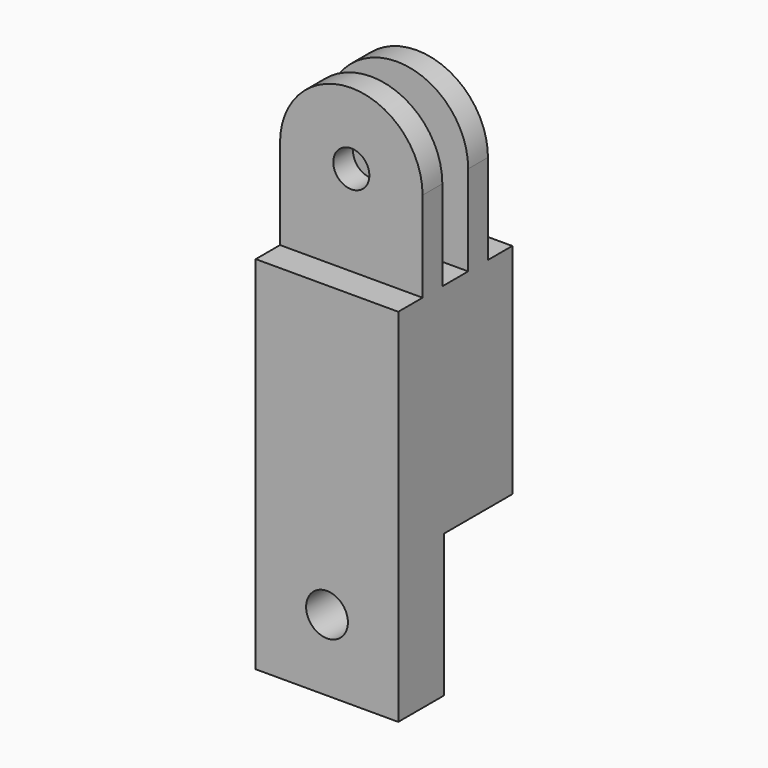
from build123d import *

# Parameters (mm, degrees)
CYLINDER005_R     = 2.2
CYLINDER005_DEPTH = 6
BOX008_W          = 15
BOX008_H          = 6
BOX008_DEPTH      = 15
CYLINDER004_R     = 1.9
CYLINDER004_DEPTH = 15
BOX005_W          = 15
BOX005_H          = 3.4
BOX005_DEPTH      = 17
ARRAY001_Y_COUNT  = 3
ARRAY001_Y_PITCH  = 6
CYLINDER003_R     = 7.5
CYLINDER003_DEPTH = 15
BOX004_W          = 15
BOX004_H          = 15
BOX004_DEPTH      = 12.5
BOX009_W          = 15
BOX009_H          = 15
BOX009_DEPTH      = 20


with BuildPart() as insert_hole001:
    # Cylinder005 → Cylinder005 (new body)
    with BuildSketch(Plane(origin=(0, -1.5, 7.5), x_dir=(1, 0, 0), z_dir=(0, -1, 0))):
        Circle(CYLINDER005_R)
    extrude(amount=CYLINDER005_DEPTH)


with BuildPart() as one_cube_with_insert_hole_cut:
    # Box008 → Box008 (new body)
    with BuildSketch(Plane(origin=(-7.5, -7.5, 0), x_dir=(1, 0, 0), z_dir=(0, 0, 1))):
        with Locations((7.5, 3)):
            Rectangle(BOX008_W, BOX008_H)
    extrude(amount=BOX008_DEPTH)

    # Cut004: cut insert hole001
    add(insert_hole001.part, mode=Mode.SUBTRACT)


with BuildPart() as side_2_bolt_hole:
    # Cylinder004 → Cylinder004 (new body)
    with BuildSketch(Plane(origin=(0, 7.5, 12.5), x_dir=(1, 0, 0), z_dir=(0, -1, 0))):
        Circle(CYLINDER004_R)
    extrude(amount=CYLINDER004_DEPTH)


with BuildPart() as side_2_extract_fusion:
    # Box005 → Box005 (new body)
    with BuildSketch(Plane(origin=(-7.5, -7.7, 3), x_dir=(1, 0, 0), z_dir=(0, 0, 1))):
        with Locations((7.5, 1.7)):
            Rectangle(BOX005_W, BOX005_H)
    extrude(amount=BOX005_DEPTH)

    # Array001 Y: side 2 extract fusion ×3


with BuildPart() as side_2_extract_fusion_1:
    add(side_2_extract_fusion.part)
    with Locations(*[(0, i * ARRAY001_Y_PITCH, 0) for i in range(1, ARRAY001_Y_COUNT)]):
        add(side_2_extract_fusion.part)

    # Fusion004: union side 2 bolt hole
    add(side_2_bolt_hole.part)


with BuildPart() as outer_cylinder001:
    # Cylinder003 → Cylinder003 (new body)
    with BuildSketch(Plane(origin=(0, 7.5, 12.5), x_dir=(1, 0, 0), z_dir=(0, -1, 0))):
        Circle(CYLINDER003_R)
    extrude(amount=CYLINDER003_DEPTH)


with BuildPart() as side_2_cut_clone001:
    # Box004 → Box004 (new body)
    with BuildSketch(Plane(origin=(-7.5, -7.5, 0), x_dir=(1, 0, 0), z_dir=(0, 0, 1))):
        with Locations((7.5, 7.5)):
            Rectangle(BOX004_W, BOX004_H)
    extrude(amount=BOX004_DEPTH)

    # Fusion003: union outer cylinder001
    add(outer_cylinder001.part)

    # Cut001: cut side 2 extract fusion
    add(side_2_extract_fusion_1.part, mode=Mode.SUBTRACT)


with BuildPart() as side_2_cut_clone001_1:
    # Body004 placement: moved
    add(side_2_cut_clone001.part.moved(Location((0, 0, 35))))


with BuildPart() as side_2_one_fusion00:
    # Box009 → Box009 (new body)
    with BuildSketch(Plane(origin=(-7.5, -7.5, 15), x_dir=(1, 0, 0), z_dir=(0, 0, 1))):
        with Locations((7.5, 7.5)):
            Rectangle(BOX009_W, BOX009_H)
    extrude(amount=BOX009_DEPTH)

    # Fusion006: union one cube with insert hole cut, side 2 cut clone001
    add(one_cube_with_insert_hole_cut.part)
    add(side_2_cut_clone001_1.part)


solid = side_2_one_fusion00.part
